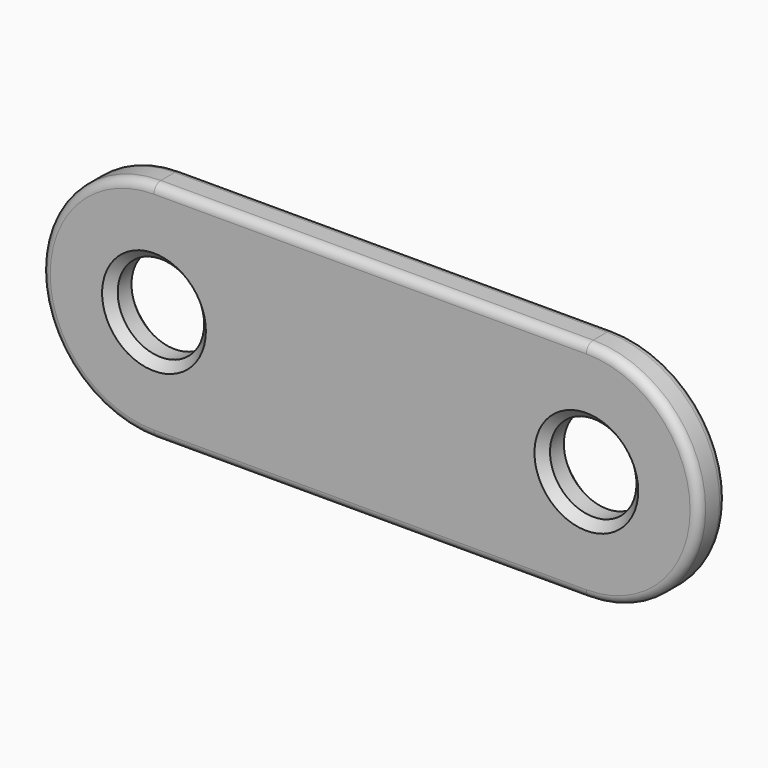
from build123d import *

# Parameters (mm, degrees)
F0_R     = 2.5
F1_DEPTH = 2
F2_R     = 0.5
F3_SIZE  = 0.5


with BuildPart() as f1:
    # F0 (on Front) → F1 (new body)
    with BuildSketch(Plane.XZ):
        with BuildLine():
            Line((7.068553, 7.382951), (-17.931447, 7.382951))
            ThreePointArc((-17.931447, 7.382951), (-24.431447, 0.882951), (-17.931447, -5.617049))
            Line((-17.931447, -5.617049), (7.068553, -5.617049))
            ThreePointArc((7.068553, -5.617049), (13.568553, 0.882951), (7.068553, 7.382951))
        make_face()
        with Locations((7.068553, 0.882951)):
            Circle(F0_R, mode=Mode.SUBTRACT)
        with Locations((-17.931447, 0.882951)):
            Circle(F0_R, mode=Mode.SUBTRACT)
    extrude(amount=F1_DEPTH)

    # F2
    f2_edges = [f1.edges().sort_by_distance(p)[0] for p in [
        (-5.431447, -2, 7.382951),
        (-24.431447, 0, 0.882951),
    ]]
    fillet(f2_edges, radius=F2_R)

    # F3
    f3_edges = [f1.edges().sort_by_distance(p)[0] for p in [
        (-20.431447, 0, 0.882951),
        (4.568553, 0, 0.882951),
        (-20.431447, -2, 0.882951),
        (4.568553, -2, 0.882951),
    ]]
    chamfer(f3_edges, length=F3_SIZE)


solid = f1.part
